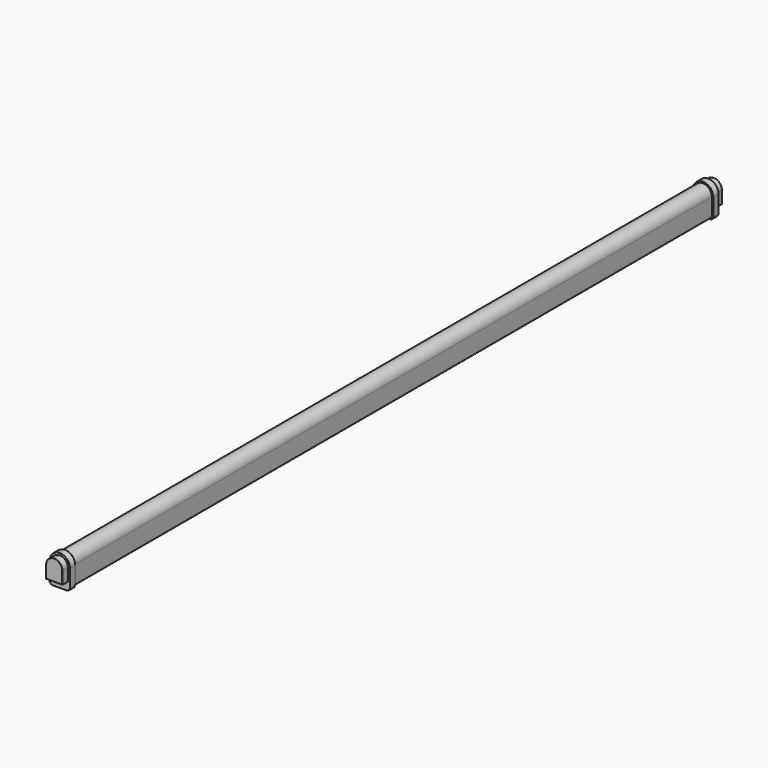
from build123d import *

# Parameters (mm, degrees)
F1_DEPTH = 580
F3_DEPTH = 10
F5_DEPTH = 10
F6_R     = 0.5


with BuildPart() as f1:
    # F0 (on Front) → F1 (new body)
    with BuildSketch(Plane.XZ):
        with BuildLine():
            Line((13, -17.5), (13, 7.5))
            ThreePointArc((13, 7.5), (9.1923881554, 16.6923881554), (0, 20.5))
            ThreePointArc((0, 20.5), (-9.1923881554, 16.6923881554), (-13, 7.5))
            Line((-13, 7.5), (-13, -17.5))
            ThreePointArc((-13, -17.5), (-12.1213203436, -19.6213203436), (-10, -20.5))
            Line((-10, -20.5), (10, -20.5))
            ThreePointArc((10, -20.5), (12.1213203436, -19.6213203436), (13, -17.5))
        make_face()
        with BuildLine():
            ThreePointArc((0, 19.5), (8.4852813742, 15.9852813742), (12, 7.5))
            Line((12, 7.5), (12, -10.5))
            Line((12, -10.5), (0, -10.5))
            Line((0, -10.5), (-12, -10.5))
            Line((-12, -10.5), (-12, 7.5))
            ThreePointArc((-12, 7.5), (-8.4852813742, 15.9852813742), (0, 19.5))
        make_face(mode=Mode.SUBTRACT)
        with BuildLine():
            Line((12, -10.5), (12, 7.5))
            ThreePointArc((12, 7.5), (8.4852813742, 15.9852813742), (0, 19.5))
            ThreePointArc((0, 19.5), (-8.4852813742, 15.9852813742), (-12, 7.5))
            Line((-12, 7.5), (-12, -10.5))
            Line((-12, -10.5), (0, -10.5))
            Line((0, -10.5), (12, -10.5))
        make_face()
    extrude(amount=F1_DEPTH)

    # F2 (on face) → F3 (join)
    with BuildSketch(Plane.XZ.offset(580)):
        with BuildLine():
            ThreePointArc((10, -22.5), (13.5355339059, -21.0355339059), (15, -17.5))
            Line((15, -17.5), (15, 7.5))
            ThreePointArc((15, 7.5), (10.6066017178, 18.1066017178), (0, 22.5))
            ThreePointArc((0, 22.5), (-10.6066017178, 18.1066017178), (-15, 7.5))
            Line((-15, 7.5), (-15, -17.5))
            ThreePointArc((-15, -17.5), (-13.5355339059, -21.0355339059), (-10, -22.5))
            Line((-10, -22.5), (10, -22.5))
        make_face()
    extrude(amount=F3_DEPTH)

    # F4 (on face) → F5 (join)
    with BuildSketch(Plane.XZ.offset(590)):
        with BuildLine():
            Line((-12, 7.5), (-12, -10.5))
            Line((-12, -10.5), (0, -10.5))
            Line((0, -10.5), (12, -10.5))
            Line((12, -10.5), (12, 7.5))
            ThreePointArc((12, 7.5), (8.4852813742, 15.9852813742), (0, 19.5))
            ThreePointArc((0, 19.5), (-8.4852813742, 15.9852813742), (-12, 7.5))
        make_face()
    extrude(amount=F5_DEPTH)

    # F6
    f6_edges = [f1.edges().sort_by_distance(p)[0] for p in [
        (0, -600, -10.5),
        (-12, -600, -1.5),
        (-15, -590, -5),
        (0, -590, 22.5),
        (-15, -580, -5),
    ]]
    fillet(f6_edges, radius=F6_R)

    # F7: F1 across plane


with BuildPart() as f1_1:
    add(f1.part)
    add(f1.part.mirror(Plane.XZ))

    # F8: F1 across plane


with BuildPart() as f1_2:
    add(f1_1.part)
    add(f1_1.part.mirror(Plane.XZ))


solid = f1_2.part
